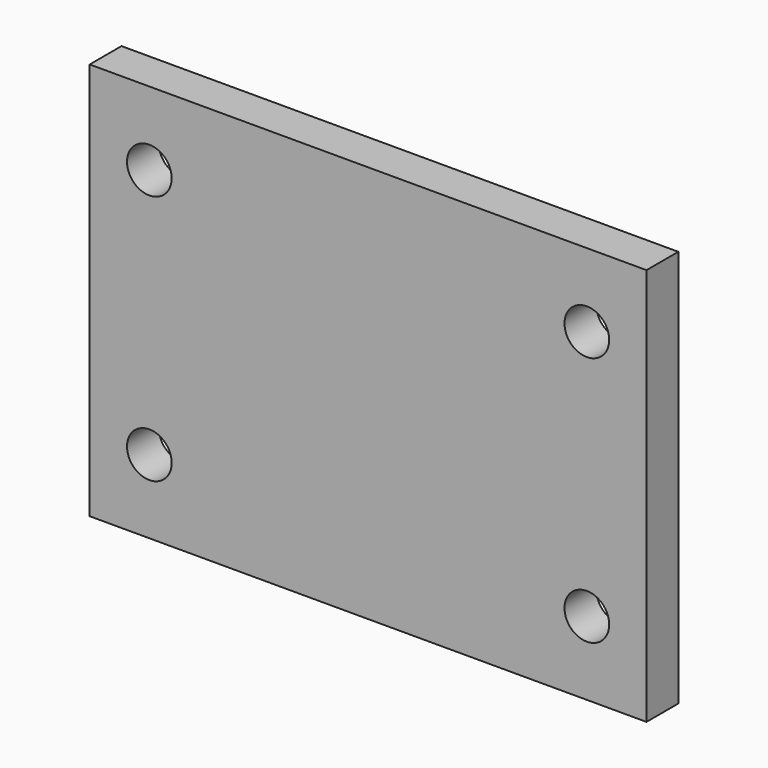
from build123d import *

# Parameters (mm, degrees)
F0_W     = 88.9
F0_H     = 63.5
F0_R     = 3.5687
F1_DEPTH = 3.175


with BuildPart() as f1:
    # F0 (on Front) → F1 (new body, symmetric)
    with BuildSketch(Plane.XZ):
        Rectangle(F0_W, F0_H)
        with Locations((-34.925, -20.0025)):
            Circle(F0_R, mode=Mode.SUBTRACT)
        with Locations((34.925, -20.0025)):
            Circle(F0_R, mode=Mode.SUBTRACT)
        with Locations((-34.925, 20.0025)):
            Circle(F0_R, mode=Mode.SUBTRACT)
        with Locations((34.925, 20.0025)):
            Circle(F0_R, mode=Mode.SUBTRACT)
    extrude(amount=F1_DEPTH, both=True)


solid = f1.part
